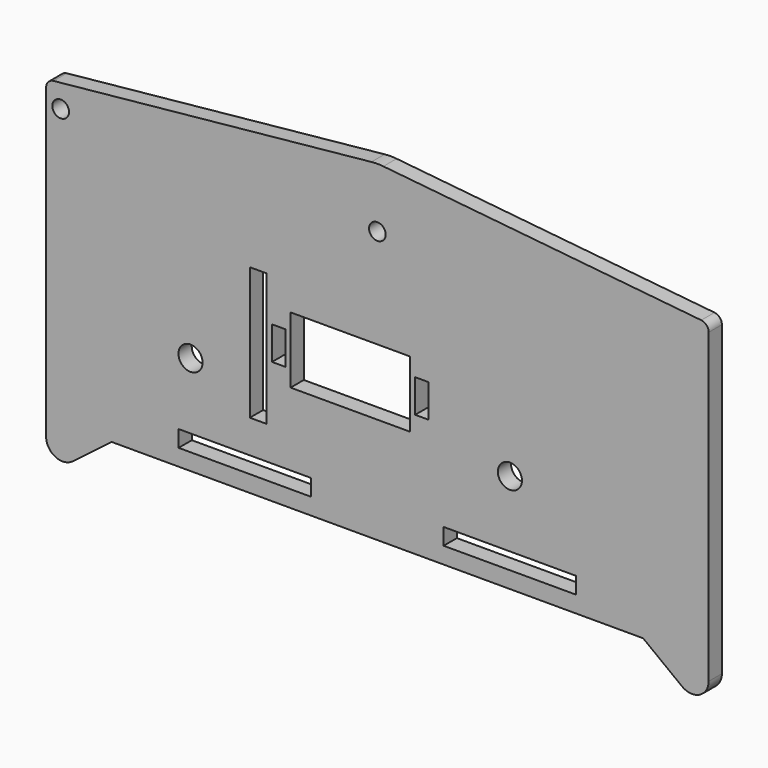
from build123d import *

# Parameters (mm, degrees)
F0_W     = 25.4
F0_H     = 3.175
F0_R     = 2.3114
F0_W_2   = 2.54
F0_H_2   = 6.35
F0_R_2   = 1.6
F0_R_3   = 1.5875
F1_DEPTH = 3.175


with BuildPart() as f1:
    # F0 (on Front) → F1 (new body)
    with BuildSketch(Plane.XZ):
        with BuildLine():
            ThreePointArc((58.3972430136, -34.2727718885), (61.7321241182, -34.5961599948), (63.5, -31.75))
            Line((63.5, -31.75), (63.5, 27.1394910474))
            ThreePointArc((63.5, 27.1394910474), (63.0899834239, 28.2042393916), (62.0717303476, 28.7189852533))
            Line((62.0717303476, 28.7189852533), (1.1458161016, 34.8609859457))
            ThreePointArc((1.1458161016, 34.8609859457), (0, 34.9185953647), (-1.1458161016, 34.8609859457))
            Line((-1.1458161016, 34.8609859457), (-62.0717303476, 28.7189852533))
            ThreePointArc((-62.0717303476, 28.7189852533), (-63.0899834239, 28.2042393916), (-63.5, 27.1394910474))
            Line((-63.5, 27.1394910474), (-63.5, -28.575))
            Line((-63.5, -28.575), (-63.5, -31.75))
            ThreePointArc((-63.5, -31.75), (-61.7321241182, -34.5961599948), (-58.3972430136, -34.2727718885))
            Line((-58.3972430136, -34.2727718885), (-50.9408162707, -28.575))
            Line((-50.9408162707, -28.575), (50.9408162707, -28.575))
            Line((50.9408162707, -28.575), (58.3972430136, -34.2727718885))
        make_face()
        with Locations((-25.4, -23.8125)):
            Rectangle(F0_W, F0_H, mode=Mode.SUBTRACT)
        with Locations((-35.814, -9.525)):
            Circle(F0_R, mode=Mode.SUBTRACT)
        Polygon((-21.2725, -15.875), (-22.86, -15.875), (-24.4475, -15.875), (-24.4475, 9.525), (-21.2725, 9.525), align=None, mode=Mode.SUBTRACT)
        with Locations((-18.923, -1.905)):
            Rectangle(F0_W_2, F0_H_2, mode=Mode.SUBTRACT)
        Polygon((-16.383, 4.445), (5.969, 4.445), (6.223, 4.445), (6.223, -8.255), (5.969, -8.255), (-16.383, -8.255), (-16.637, -8.255), (-16.637, 4.445), align=None, mode=Mode.SUBTRACT)
        with Locations((25.4, -23.8125)):
            Rectangle(F0_W, F0_H, mode=Mode.SUBTRACT)
        with Locations((25.4, -9.525)):
            Circle(F0_R, mode=Mode.SUBTRACT)
        with Locations((8.509, -1.905)):
            Rectangle(F0_W_2, F0_H_2, mode=Mode.SUBTRACT)
        with Locations((-60.7, 24.4347527623)):
            Circle(F0_R_2, mode=Mode.SUBTRACT)
        with Locations((0, 23.495)):
            Circle(F0_R_3, mode=Mode.SUBTRACT)
    extrude(amount=F1_DEPTH)


solid = f1.part
